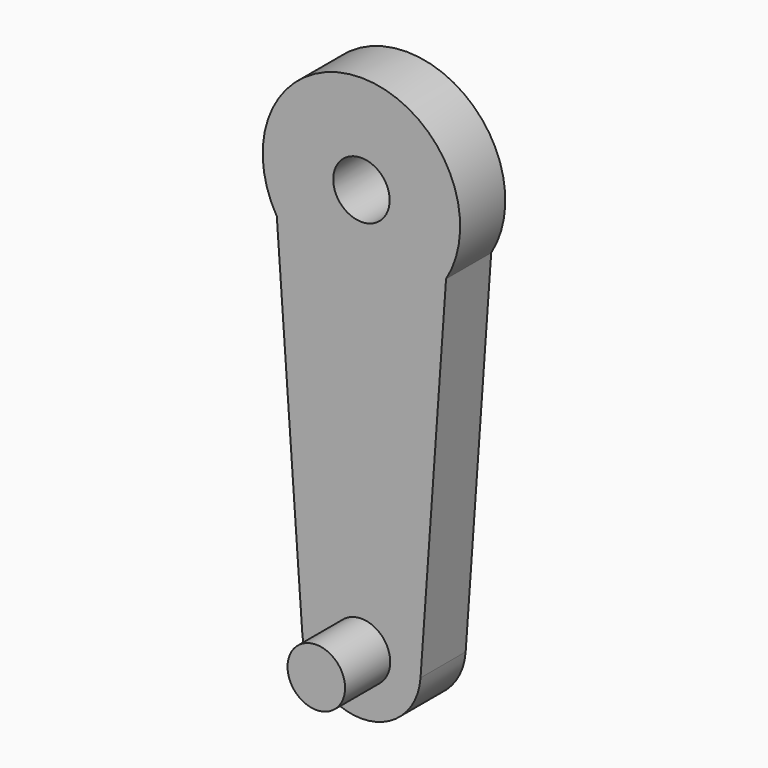
from build123d import *

# Parameters (mm, degrees)
F1_DEPTH = 2
F2_R     = 1
F3_DEPTH = 25
F4_R     = 1.020261
F5_DEPTH = 2


with BuildPart() as f1:
    # F0 (on Front) → F1 (new body)
    with BuildSketch(Plane.XZ):
        with BuildLine():
            Line((2.094723, -14.548776), (3, -1.802776))
            ThreePointArc((3, -1.802776), (0, 3.5), (-3, -1.802776))
            Line((-3, -1.802776), (-2.094723, -14.548776))
            ThreePointArc((-2.094723, -14.548776), (0, -16.5), (2.094723, -14.548776))
        make_face()
    extrude(amount=F1_DEPTH)

    # F2 (on face) → F3 (cut)
    with BuildSketch(Plane.XZ.offset(2)):
        Circle(F2_R)
    extrude(amount=-F3_DEPTH, mode=Mode.SUBTRACT)

    # F4 (on face) → F5 (join)
    with BuildSketch(Plane.XZ.offset(2)):
        with Locations((0, -14.4)):
            Circle(F4_R)
    extrude(amount=F5_DEPTH)


solid = f1.part
